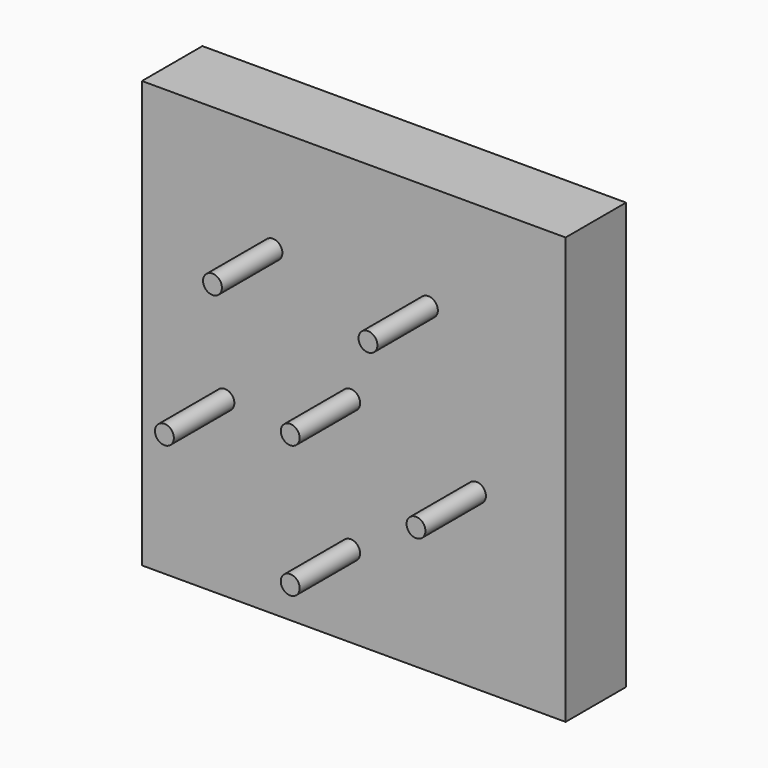
from build123d import *

# Parameters (mm, degrees)
F0_W     = 142.387465
F0_H     = 143.335446
F1_DEPTH = 25.4
F2_R     = 3.175
F3_DEPTH = 25.4
F4_R     = 3.175
F5_DEPTH = 25.4


with BuildPart() as f1:
    # F0 (on Front) → F1 (new body)
    with BuildSketch(Plane.XZ):
        with Locations((1.042783, -0.189595)):
            Rectangle(F0_W, F0_H)
    extrude(amount=F1_DEPTH)


with BuildPart() as f3:
    # F2 (on face) → F3 (new body)
    with BuildSketch(Plane.XZ.offset(25.4)):
        Circle(F2_R)
    extrude(amount=F3_DEPTH)


with BuildPart() as f5:
    # F4 (on face) → F5 (new body)
    with BuildSketch(Plane.XZ.offset(25.4)):
        with Locations((-42.274462, -13.735805)):
            Circle(F4_R)
        with Locations((-26.127054, 35.960805)):
            Circle(F4_R)
        with Locations((26.127054, 35.960805)):
            Circle(F4_R)
        with Locations((42.274462, -13.735805)):
            Circle(F4_R)
        with Locations((0, -44.45)):
            Circle(F4_R)
    extrude(amount=F5_DEPTH)


solid = Compound([f1.part, f3.part, f5.part])
